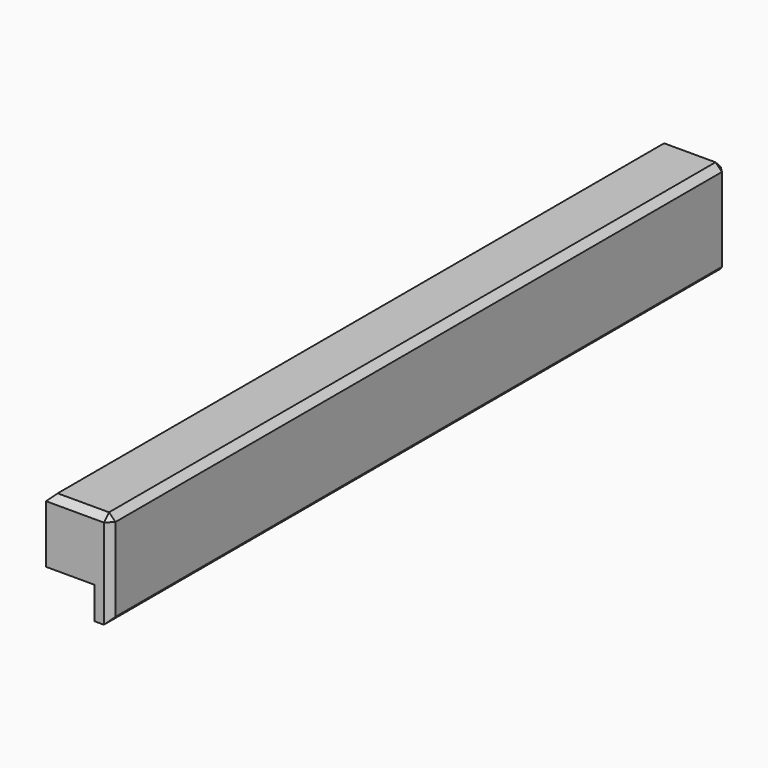
from build123d import *

# Parameters (mm, degrees)
F1_DEPTH = 152.4
F2_SIZE  = 2.54


with BuildPart() as f1:
    # F0 (on Front) → F1 (new body, symmetric)
    with BuildSketch(Plane.XZ):
        Polygon((0, 19.05), (-25.4, 19.05), (-25.4, -6.35), (-6.35, -6.35), (-6.35, -19.05), (0, -19.05), align=None)
    extrude(amount=F1_DEPTH, both=True)

    # F2
    f2_edges = [f1.edges().sort_by_distance(p)[0] for p in [
        (0, 152.4, 0),
        (0, 0, 19.05),
        (0, -152.4, 0),
        (0, 0, -19.05),
        (-12.7, 152.4, 19.05),
        (-25.4, 0, 19.05),
        (-12.7, -152.4, 19.05),
    ]]
    chamfer(f2_edges, length=F2_SIZE)


solid = f1.part
